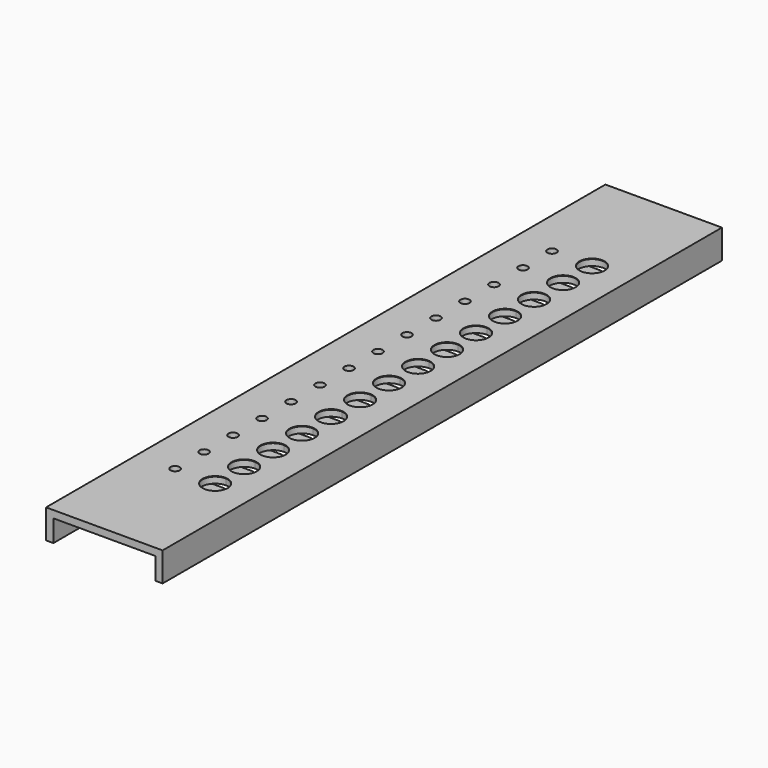
from build123d import *

# Parameters (mm, degrees)
F0_W     = 44.45
F0_H     = 304.8
F0_R     = 5.9944
F0_W_2   = 3.175
F1_DEPTH = 2.921
F2_DEPTH = 9.525
F3_W     = 50.8
F3_H     = 304.8
F3_R     = 5.9944
F3_R_2   = 6
F3_R_3   = 5.492
F3_R_4   = 5.4864
F4_DEPTH = 0.254
F5_R     = 1.984375
F6_DEPTH = 0.254
F7_DEPTH = 3.176


with BuildPart() as f1:
    # F0 (on Top) → F1 (new body)
    with BuildSketch(Plane.XY):
        with Locations((25.4, -152.4)):
            Rectangle(F0_W, F0_H)
        with BuildLine():
            ThreePointArc((39.9344, -255.1006), (29.7013191109, -259.3392808891), (33.94, -249.1062))
            ThreePointArc((33.94, -249.1062), (38.1786808891, -250.8619191109), (39.9344, -255.1006))
        make_face(mode=Mode.SUBTRACT)
        with BuildLine():
            ThreePointArc((33.94, -245.2962), (27.9456, -239.3018), (33.94, -233.3074))
            ThreePointArc((33.94, -233.3074), (38.1786808891, -235.0631191109), (39.9344, -239.3018))
            ThreePointArc((39.9344, -239.3018), (38.1786808891, -243.5404808891), (33.94, -245.2962))
        make_face(mode=Mode.SUBTRACT)
        with BuildLine():
            ThreePointArc((33.94, -229.4974), (27.9456, -223.503), (33.94, -217.5086))
            ThreePointArc((33.94, -217.5086), (38.1786808891, -219.2643191109), (39.9344, -223.503))
            ThreePointArc((39.9344, -223.503), (38.1786808891, -227.7416808891), (33.94, -229.4974))
        make_face(mode=Mode.SUBTRACT)
        with BuildLine():
            ThreePointArc((33.94, -213.6986), (27.9456, -207.7042), (33.94, -201.7098))
            ThreePointArc((33.94, -201.7098), (38.1786808891, -203.4655191109), (39.9344, -207.7042))
            ThreePointArc((39.9344, -207.7042), (38.1786808891, -211.9428808891), (33.94, -213.6986))
        make_face(mode=Mode.SUBTRACT)
        with BuildLine():
            ThreePointArc((33.94, -197.8998), (27.9456, -191.9054), (33.94, -185.911))
            ThreePointArc((33.94, -185.911), (38.1786808891, -187.6667191109), (39.9344, -191.9054))
            ThreePointArc((39.9344, -191.9054), (38.1786808891, -196.1440808891), (33.94, -197.8998))
        make_face(mode=Mode.SUBTRACT)
        with BuildLine():
            ThreePointArc((33.94, -182.101), (27.9456, -176.1066), (33.94, -170.1122))
            ThreePointArc((33.94, -170.1122), (38.1786808891, -171.8679191109), (39.9344, -176.1066))
            ThreePointArc((39.9344, -176.1066), (38.1786808891, -180.3452808891), (33.94, -182.101))
        make_face(mode=Mode.SUBTRACT)
        with BuildLine():
            ThreePointArc((33.94, -166.3022), (27.9456, -160.3078), (33.94, -154.3134))
            ThreePointArc((33.94, -154.3134), (38.1786808891, -156.0691191109), (39.9344, -160.3078))
            ThreePointArc((39.9344, -160.3078), (38.1786808891, -164.5464808891), (33.94, -166.3022))
        make_face(mode=Mode.SUBTRACT)
        with BuildLine():
            ThreePointArc((33.94, -150.5034), (27.9456, -144.509), (33.94, -138.5146))
            ThreePointArc((33.94, -138.5146), (38.1786808891, -140.2703191109), (39.9344, -144.509))
            ThreePointArc((39.9344, -144.509), (38.1786808891, -148.7476808891), (33.94, -150.5034))
        make_face(mode=Mode.SUBTRACT)
        with BuildLine():
            ThreePointArc((33.94, -134.7046), (27.9456, -128.7102), (33.94, -122.7158))
            ThreePointArc((33.94, -122.7158), (38.1786808891, -124.4715191109), (39.9344, -128.7102))
            ThreePointArc((39.9344, -128.7102), (38.1786808891, -132.9488808891), (33.94, -134.7046))
        make_face(mode=Mode.SUBTRACT)
        with BuildLine():
            ThreePointArc((33.94, -118.9058), (27.9456, -112.9114), (33.94, -106.917))
            ThreePointArc((33.94, -106.917), (38.1786808891, -108.6727191109), (39.9344, -112.9114))
            ThreePointArc((39.9344, -112.9114), (38.1786808891, -117.1500808891), (33.94, -118.9058))
        make_face(mode=Mode.SUBTRACT)
        with BuildLine():
            ThreePointArc((33.94, -103.107), (27.94, -97.107), (33.94, -91.107))
            ThreePointArc((33.94, -91.107), (38.1826406871, -92.8643593129), (39.94, -97.107))
            ThreePointArc((39.94, -97.107), (38.1826406871, -101.3496406871), (33.94, -103.107))
        make_face(mode=Mode.SUBTRACT)
        with BuildLine():
            ThreePointArc((33.94, -87.297), (29.6973593129, -77.0543593129), (39.94, -81.297))
            ThreePointArc((39.94, -81.297), (38.1826406871, -85.5396406871), (33.94, -87.297))
        make_face(mode=Mode.SUBTRACT)
        with Locations((33.94, -65.4926)):
            Circle(F0_R, mode=Mode.SUBTRACT)
        with Locations((33.94, -49.6938)):
            Circle(F0_R, mode=Mode.SUBTRACT)
        with Locations((49.2125, -152.4)):
            Rectangle(F0_W_2, F0_H)
        with Locations((1.5875, -152.4)):
            Rectangle(F0_W_2, F0_H)
    extrude(amount=F1_DEPTH)

    # F0 (on Top) → F2 (join)
    with BuildSketch(Plane.XY):
        with Locations((1.5875, -152.4)):
            Rectangle(F0_W_2, F0_H)
        with Locations((49.2125, -152.4)):
            Rectangle(F0_W_2, F0_H)
    extrude(amount=-F2_DEPTH)

    # F3 (on face) → F4 (join)
    with BuildSketch(Plane.XY.offset(2.921)):
        with Locations((25.4, -152.4)):
            Rectangle(F3_W, F3_H)
        with Locations((33.94, -255.1006)):
            Circle(F3_R, mode=Mode.SUBTRACT)
        with Locations((33.94, -239.3018)):
            Circle(F3_R, mode=Mode.SUBTRACT)
        with Locations((33.94, -223.503)):
            Circle(F3_R, mode=Mode.SUBTRACT)
        with Locations((33.94, -207.7042)):
            Circle(F3_R, mode=Mode.SUBTRACT)
        with Locations((33.94, -191.9054)):
            Circle(F3_R, mode=Mode.SUBTRACT)
        with Locations((33.94, -176.1066)):
            Circle(F3_R, mode=Mode.SUBTRACT)
        with Locations((33.94, -160.3078)):
            Circle(F3_R, mode=Mode.SUBTRACT)
        with Locations((33.94, -144.509)):
            Circle(F3_R, mode=Mode.SUBTRACT)
        with Locations((33.94, -128.7102)):
            Circle(F3_R, mode=Mode.SUBTRACT)
        with Locations((33.94, -112.9114)):
            Circle(F3_R, mode=Mode.SUBTRACT)
        with Locations((33.94, -97.107)):
            Circle(F3_R_2, mode=Mode.SUBTRACT)
        with Locations((33.94, -81.297)):
            Circle(F3_R_2, mode=Mode.SUBTRACT)
        with Locations((33.94, -65.4926)):
            Circle(F3_R, mode=Mode.SUBTRACT)
        with Locations((33.94, -49.6938)):
            Circle(F3_R, mode=Mode.SUBTRACT)
        with Locations((33.94, -81.297)):
            Circle(F3_R_2)
        with Locations((33.94, -81.297)):
            Circle(F3_R_3, mode=Mode.SUBTRACT)
        with Locations((33.94, -97.107)):
            Circle(F3_R_2)
        with Locations((33.94, -97.107)):
            Circle(F3_R_3, mode=Mode.SUBTRACT)
        with Locations((33.94, -255.1006)):
            Circle(F3_R)
        with Locations((33.94, -255.1006)):
            Circle(F3_R_4, mode=Mode.SUBTRACT)
        with Locations((33.94, -239.3018)):
            Circle(F3_R)
        with Locations((33.94, -239.3018)):
            Circle(F3_R_4, mode=Mode.SUBTRACT)
        with Locations((33.94, -207.7042)):
            Circle(F3_R)
        with Locations((33.94, -207.7042)):
            Circle(F3_R_4, mode=Mode.SUBTRACT)
        with Locations((33.94, -191.9054)):
            Circle(F3_R)
        with Locations((33.94, -191.9054)):
            Circle(F3_R_4, mode=Mode.SUBTRACT)
        with Locations((33.94, -176.1066)):
            Circle(F3_R)
        with Locations((33.94, -176.1066)):
            Circle(F3_R_4, mode=Mode.SUBTRACT)
        with Locations((33.94, -160.3078)):
            Circle(F3_R)
        with Locations((33.94, -160.3078)):
            Circle(F3_R_4, mode=Mode.SUBTRACT)
        with Locations((33.94, -144.509)):
            Circle(F3_R)
        with Locations((33.94, -144.509)):
            Circle(F3_R_4, mode=Mode.SUBTRACT)
        with Locations((33.94, -128.7102)):
            Circle(F3_R)
        with Locations((33.94, -128.7102)):
            Circle(F3_R_4, mode=Mode.SUBTRACT)
        with Locations((33.94, -112.9114)):
            Circle(F3_R)
        with Locations((33.94, -112.9114)):
            Circle(F3_R_4, mode=Mode.SUBTRACT)
        with Locations((33.94, -223.503)):
            Circle(F3_R)
        with Locations((33.94, -223.503)):
            Circle(F3_R_4, mode=Mode.SUBTRACT)
        with Locations((33.94, -49.6938)):
            Circle(F3_R)
        with Locations((33.94, -49.6938)):
            Circle(F3_R_4, mode=Mode.SUBTRACT)
        with Locations((33.94, -65.4926)):
            Circle(F3_R)
        with Locations((33.94, -65.4926)):
            Circle(F3_R_4, mode=Mode.SUBTRACT)
    extrude(amount=F4_DEPTH)

    # F5 (on face) → F7 (cut, through all)
    with BuildSketch(Plane.XY):
        with Locations((16.4775, -223.503)):
            Circle(F5_R)
        with Locations((16.4775, -207.7042)):
            Circle(F5_R)
        with Locations((16.4775, -191.9054)):
            Circle(F5_R)
        with Locations((16.4775, -176.1066)):
            Circle(F5_R)
        with Locations((16.4775, -160.3078)):
            Circle(F5_R)
        with Locations((16.4775, -144.509)):
            Circle(F5_R)
        with Locations((16.4775, -128.7102)):
            Circle(F5_R)
        with Locations((16.4775, -112.9114)):
            Circle(F5_R)
        with Locations((16.4775, -97.107)):
            Circle(F5_R)
        with Locations((16.4775, -81.297)):
            Circle(F5_R)
        with Locations((16.4775, -65.4926)):
            Circle(F5_R)
        with Locations((16.4775, -49.6938)):
            Circle(F5_R)
        with Locations((16.4775, -239.3018)):
            Circle(F5_R)
        with Locations((16.4775, -255.1006)):
            Circle(F5_R)
    extrude(amount=F7_DEPTH, mode=Mode.SUBTRACT)


with BuildPart() as f6:
    # F5 (on face) → F6 (new body)
    with BuildSketch(Plane.XY):
        with BuildLine():
            ThreePointArc((16.4775, -219.53425), (12.50875, -223.503), (16.4775, -227.47175))
            Line((16.4775, -227.47175), (33.94, -227.47175))
            ThreePointArc((33.94, -227.47175), (37.90875, -223.503), (33.94, -219.53425))
            Line((33.94, -219.53425), (16.4775, -219.53425))
        make_face()
        with Locations((16.4775, -223.503)):
            Circle(F5_R, mode=Mode.SUBTRACT)
    extrude(amount=-F6_DEPTH)


with BuildPart() as f6b:
    # F5 (on face) → F6, piece 2 (new body)
    with BuildSketch(Plane.XY):
        with BuildLine():
            ThreePointArc((16.4775, -203.73545), (12.50875, -207.7042), (16.4775, -211.67295))
            Line((16.4775, -211.67295), (33.94, -211.67295))
            ThreePointArc((33.94, -211.67295), (37.90875, -207.7042), (33.94, -203.73545))
            Line((33.94, -203.73545), (16.4775, -203.73545))
        make_face()
        with Locations((16.4775, -207.7042)):
            Circle(F5_R, mode=Mode.SUBTRACT)
    extrude(amount=-F6_DEPTH)


with BuildPart() as f6c:
    # F5 (on face) → F6, piece 3 (new body)
    with BuildSketch(Plane.XY):
        with BuildLine():
            ThreePointArc((16.4775, -187.93665), (12.50875, -191.9054), (16.4775, -195.87415))
            Line((16.4775, -195.87415), (33.94, -195.87415))
            ThreePointArc((33.94, -195.87415), (37.90875, -191.9054), (33.94, -187.93665))
            Line((33.94, -187.93665), (16.4775, -187.93665))
        make_face()
        with Locations((16.4775, -191.9054)):
            Circle(F5_R, mode=Mode.SUBTRACT)
    extrude(amount=-F6_DEPTH)


with BuildPart() as f6d:
    # F5 (on face) → F6, piece 4 (new body)
    with BuildSketch(Plane.XY):
        with BuildLine():
            ThreePointArc((16.4775, -172.13785), (12.50875, -176.1066), (16.4775, -180.07535))
            Line((16.4775, -180.07535), (33.94, -180.07535))
            ThreePointArc((33.94, -180.07535), (37.90875, -176.1066), (33.94, -172.13785))
            Line((33.94, -172.13785), (16.4775, -172.13785))
        make_face()
        with Locations((16.4775, -176.1066)):
            Circle(F5_R, mode=Mode.SUBTRACT)
    extrude(amount=-F6_DEPTH)


with BuildPart() as f6e:
    # F5 (on face) → F6, piece 5 (new body)
    with BuildSketch(Plane.XY):
        with BuildLine():
            ThreePointArc((16.4775, -156.33905), (12.50875, -160.3078), (16.4775, -164.27655))
            Line((16.4775, -164.27655), (33.94, -164.27655))
            ThreePointArc((33.94, -164.27655), (37.90875, -160.3078), (33.94, -156.33905))
            Line((33.94, -156.33905), (16.4775, -156.33905))
        make_face()
        with Locations((16.4775, -160.3078)):
            Circle(F5_R, mode=Mode.SUBTRACT)
    extrude(amount=-F6_DEPTH)


with BuildPart() as f6f:
    # F5 (on face) → F6, piece 6 (new body)
    with BuildSketch(Plane.XY):
        with BuildLine():
            ThreePointArc((16.4775, -140.54025), (12.50875, -144.509), (16.4775, -148.47775))
            Line((16.4775, -148.47775), (33.94, -148.47775))
            ThreePointArc((33.94, -148.47775), (37.90875, -144.509), (33.94, -140.54025))
            Line((33.94, -140.54025), (16.4775, -140.54025))
        make_face()
        with Locations((16.4775, -144.509)):
            Circle(F5_R, mode=Mode.SUBTRACT)
    extrude(amount=-F6_DEPTH)


with BuildPart() as f6g:
    # F5 (on face) → F6, piece 7 (new body)
    with BuildSketch(Plane.XY):
        with BuildLine():
            ThreePointArc((16.4775, -124.74145), (12.50875, -128.7102), (16.4775, -132.67895))
            Line((16.4775, -132.67895), (33.94, -132.67895))
            ThreePointArc((33.94, -132.67895), (37.90875, -128.7102), (33.94, -124.74145))
            Line((33.94, -124.74145), (16.4775, -124.74145))
        make_face()
        with Locations((16.4775, -128.7102)):
            Circle(F5_R, mode=Mode.SUBTRACT)
    extrude(amount=-F6_DEPTH)


with BuildPart() as f6h:
    # F5 (on face) → F6, piece 8 (new body)
    with BuildSketch(Plane.XY):
        with BuildLine():
            ThreePointArc((16.4775, -108.94265), (12.50875, -112.9114), (16.4775, -116.88015))
            Line((16.4775, -116.88015), (33.94, -116.88015))
            ThreePointArc((33.94, -116.88015), (37.90875, -112.9114), (33.94, -108.94265))
            Line((33.94, -108.94265), (16.4775, -108.94265))
        make_face()
        with Locations((16.4775, -112.9114)):
            Circle(F5_R, mode=Mode.SUBTRACT)
    extrude(amount=-F6_DEPTH)


with BuildPart() as f6i:
    # F5 (on face) → F6, piece 9 (new body)
    with BuildSketch(Plane.XY):
        with BuildLine():
            ThreePointArc((16.4775, -93.13825), (12.50875, -97.107), (16.4775, -101.07575))
            Line((16.4775, -101.07575), (33.94, -101.07575))
            ThreePointArc((33.94, -101.07575), (37.90875, -97.107), (33.94, -93.13825))
            Line((33.94, -93.13825), (16.4775, -93.13825))
        make_face()
        with Locations((16.4775, -97.107)):
            Circle(F5_R, mode=Mode.SUBTRACT)
    extrude(amount=-F6_DEPTH)


with BuildPart() as f6j:
    # F5 (on face) → F6, piece 10 (new body)
    with BuildSketch(Plane.XY):
        with BuildLine():
            ThreePointArc((16.4775, -77.32825), (12.50875, -81.297), (16.4775, -85.26575))
            Line((16.4775, -85.26575), (33.94, -85.26575))
            ThreePointArc((33.94, -85.26575), (37.90875, -81.297), (33.94, -77.32825))
            Line((33.94, -77.32825), (16.4775, -77.32825))
        make_face()
        with Locations((16.4775, -81.297)):
            Circle(F5_R, mode=Mode.SUBTRACT)
    extrude(amount=-F6_DEPTH)


with BuildPart() as f6k:
    # F5 (on face) → F6, piece 11 (new body)
    with BuildSketch(Plane.XY):
        with BuildLine():
            ThreePointArc((16.4775, -61.52385), (12.50875, -65.4926), (16.4775, -69.46135))
            Line((16.4775, -69.46135), (33.94, -69.46135))
            ThreePointArc((33.94, -69.46135), (37.90875, -65.4926), (33.94, -61.52385))
            Line((33.94, -61.52385), (16.4775, -61.52385))
        make_face()
        with Locations((16.4775, -65.4926)):
            Circle(F5_R, mode=Mode.SUBTRACT)
    extrude(amount=-F6_DEPTH)


with BuildPart() as f6l:
    # F5 (on face) → F6, piece 12 (new body)
    with BuildSketch(Plane.XY):
        with BuildLine():
            ThreePointArc((16.4775, -251.13185), (12.50875, -255.1006), (16.4775, -259.06935))
            Line((16.4775, -259.06935), (33.94, -259.06935))
            ThreePointArc((33.94, -259.06935), (37.90875, -255.1006), (33.94, -251.13185))
            Line((33.94, -251.13185), (16.4775, -251.13185))
        make_face()
        with Locations((16.4775, -255.1006)):
            Circle(F5_R, mode=Mode.SUBTRACT)
    extrude(amount=-F6_DEPTH)


with BuildPart() as f6m:
    # F5 (on face) → F6, piece 13 (new body)
    with BuildSketch(Plane.XY):
        with BuildLine():
            ThreePointArc((16.4775, -235.33305), (12.50875, -239.3018), (16.4775, -243.27055))
            Line((16.4775, -243.27055), (33.94, -243.27055))
            ThreePointArc((33.94, -243.27055), (37.90875, -239.3018), (33.94, -235.33305))
            Line((33.94, -235.33305), (16.4775, -235.33305))
        make_face()
        with Locations((16.4775, -239.3018)):
            Circle(F5_R, mode=Mode.SUBTRACT)
    extrude(amount=-F6_DEPTH)


with BuildPart() as f6n:
    # F5 (on face) → F6, piece 14 (new body)
    with BuildSketch(Plane.XY):
        with BuildLine():
            ThreePointArc((16.4775, -45.72505), (12.50875, -49.6938), (16.4775, -53.66255))
            Line((16.4775, -53.66255), (33.94, -53.66255))
            ThreePointArc((33.94, -53.66255), (37.90875, -49.6938), (33.94, -45.72505))
            Line((33.94, -45.72505), (16.4775, -45.72505))
        make_face()
        with Locations((16.4775, -49.6938)):
            Circle(F5_R, mode=Mode.SUBTRACT)
    extrude(amount=-F6_DEPTH)


solid = Compound([f1.part, f6.part, f6b.part, f6c.part, f6d.part, f6e.part, f6f.part, f6g.part, f6h.part, f6i.part, f6j.part, f6k.part, f6l.part, f6m.part, f6n.part])
